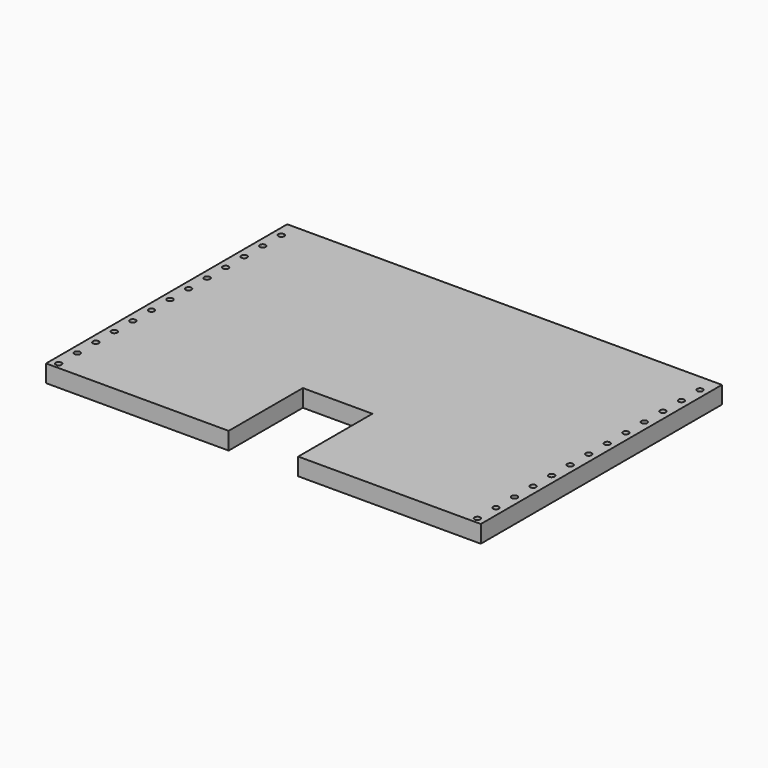
from build123d import *

# Parameters (mm, degrees)
F0_R     = 3.175
F0_W     = 15.113
F0_H     = 330.2
F1_DEPTH = 19.05


with BuildPart() as f1:
    # F0 (on Top) → F1 (new body)
    with BuildSketch(Plane.XY):
        Polygon((0, 165.1), (-238.125, 165.1), (-238.125, -165.1), (-38.1, -165.1), (-38.1, -63.5), (0, -63.5), align=None)
        with Locations((-229.362, -158.75)):
            Circle(F0_R, mode=Mode.SUBTRACT)
        with Locations((-229.362, -133.35)):
            Circle(F0_R, mode=Mode.SUBTRACT)
        with Locations((-229.362, -107.95)):
            Circle(F0_R, mode=Mode.SUBTRACT)
        with Locations((-229.362, -82.55)):
            Circle(F0_R, mode=Mode.SUBTRACT)
        with Locations((-229.362, -57.15)):
            Circle(F0_R, mode=Mode.SUBTRACT)
        with Locations((-229.362, -31.75)):
            Circle(F0_R, mode=Mode.SUBTRACT)
        with Locations((-229.362, -6.35)):
            Circle(F0_R, mode=Mode.SUBTRACT)
        with Locations((-229.362, 19.05)):
            Circle(F0_R, mode=Mode.SUBTRACT)
        with Locations((-229.362, 44.45)):
            Circle(F0_R, mode=Mode.SUBTRACT)
        with Locations((-229.362, 69.85)):
            Circle(F0_R, mode=Mode.SUBTRACT)
        with Locations((-229.362, 95.25)):
            Circle(F0_R, mode=Mode.SUBTRACT)
        with Locations((-229.362, 120.65)):
            Circle(F0_R, mode=Mode.SUBTRACT)
        with Locations((-229.362, 146.05)):
            Circle(F0_R, mode=Mode.SUBTRACT)
        with Locations((230.5685, 0)):
            Rectangle(F0_W, F0_H)
        with Locations((229.362, -158.75)):
            Circle(F0_R, mode=Mode.SUBTRACT)
        with Locations((229.362, -133.35)):
            Circle(F0_R, mode=Mode.SUBTRACT)
        with Locations((229.362, -107.95)):
            Circle(F0_R, mode=Mode.SUBTRACT)
        with Locations((229.362, -82.55)):
            Circle(F0_R, mode=Mode.SUBTRACT)
        with Locations((229.362, -57.15)):
            Circle(F0_R, mode=Mode.SUBTRACT)
        with Locations((229.362, -31.75)):
            Circle(F0_R, mode=Mode.SUBTRACT)
        with Locations((229.362, -6.35)):
            Circle(F0_R, mode=Mode.SUBTRACT)
        with Locations((229.362, 19.05)):
            Circle(F0_R, mode=Mode.SUBTRACT)
        with Locations((229.362, 44.45)):
            Circle(F0_R, mode=Mode.SUBTRACT)
        with Locations((229.362, 69.85)):
            Circle(F0_R, mode=Mode.SUBTRACT)
        with Locations((229.362, 95.25)):
            Circle(F0_R, mode=Mode.SUBTRACT)
        with Locations((229.362, 120.65)):
            Circle(F0_R, mode=Mode.SUBTRACT)
        with Locations((229.362, 146.05)):
            Circle(F0_R, mode=Mode.SUBTRACT)
        Polygon((223.012, 165.1), (0, 165.1), (0, -63.5), (38.1, -63.5), (38.1, -165.1), (223.012, -165.1), align=None)
    extrude(amount=F1_DEPTH)


solid = f1.part
